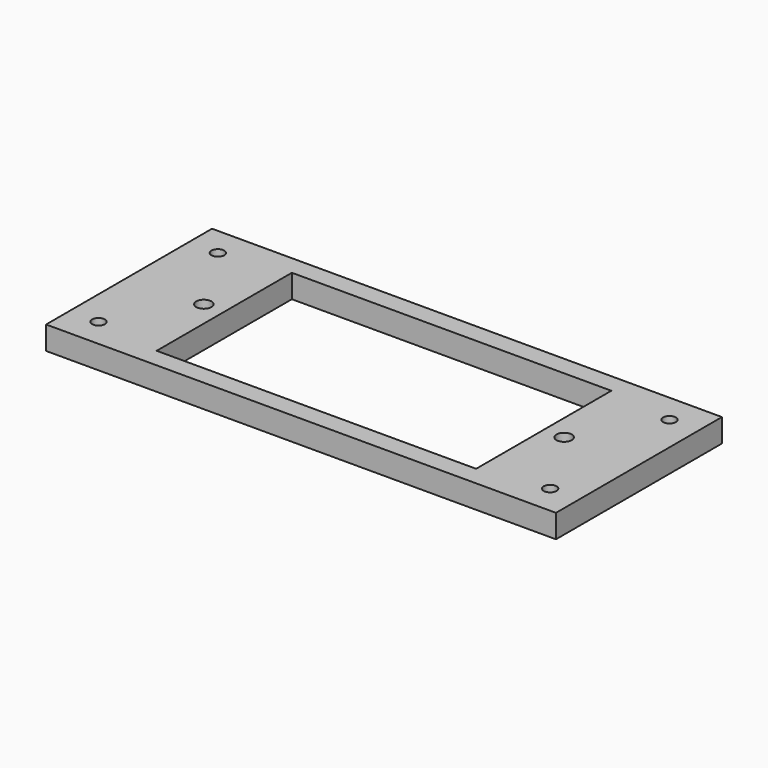
from build123d import *

# Parameters (mm, degrees)
F0_W     = 20.7518
F0_H     = 36.83
F0_R     = 1.397
F0_R_2   = 1.6764
F0_W_2   = 69.6214
F0_H_2   = 4.191
F1_DEPTH = 5.08


with BuildPart() as f1:
    # F0 (on Top) → F1 (new body)
    with BuildSketch(Plane.XY):
        Polygon((0, 4.191), (0, 0), (16.3068, 0), (20.7518, 0), (20.7518, 4.191), align=None)
        with Locations((10.3759, 22.606)):
            Rectangle(F0_W, F0_H)
        with Locations((6.35, 6.35)):
            Circle(F0_R, mode=Mode.SUBTRACT)
        with Locations((16.3068, 22.606)):
            Circle(F0_R_2, mode=Mode.SUBTRACT)
        with Locations((6.35, 38.862)):
            Circle(F0_R, mode=Mode.SUBTRACT)
        with Locations((55.5625, 2.0955)):
            Rectangle(F0_W_2, F0_H_2)
        with Locations((10.3759, 43.1165)):
            Rectangle(F0_W, F0_H_2)
        with Locations((100.7491, 2.0955)):
            Rectangle(F0_W, F0_H_2)
        with Locations((55.5625, 43.1165)):
            Rectangle(F0_W_2, F0_H_2)
        with Locations((100.7491, 22.606)):
            Rectangle(F0_W, F0_H)
        with Locations((104.775, 6.35)):
            Circle(F0_R, mode=Mode.SUBTRACT)
        with Locations((94.8182, 22.606)):
            Circle(F0_R_2, mode=Mode.SUBTRACT)
        with Locations((104.775, 38.862)):
            Circle(F0_R, mode=Mode.SUBTRACT)
        with Locations((100.7491, 43.1165)):
            Rectangle(F0_W, F0_H_2)
    extrude(amount=F1_DEPTH)


solid = f1.part
